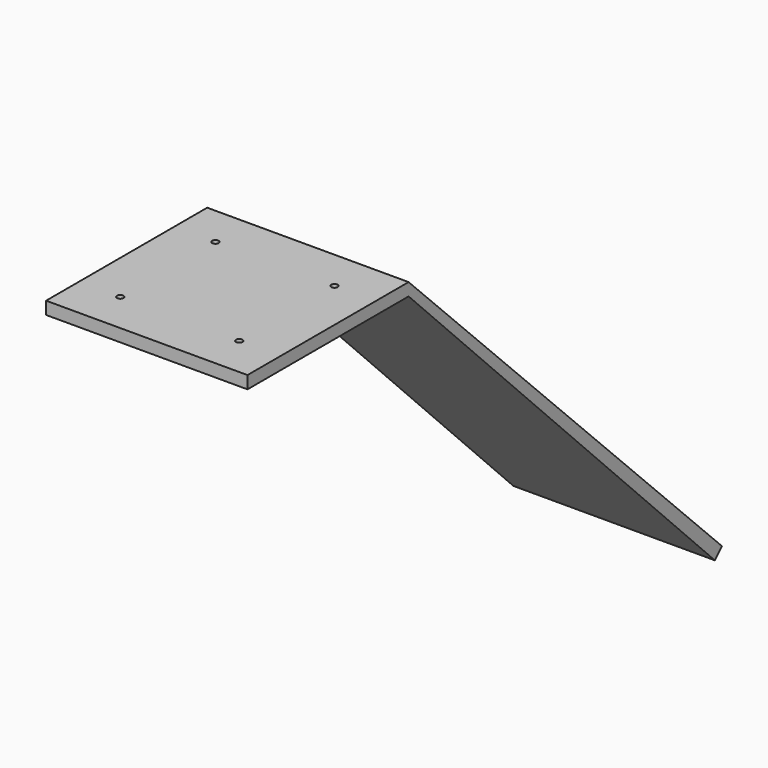
from build123d import *

# Parameters (mm, degrees)
F0_W     = 203.2
F0_H     = 12.7
F1_DEPTH = 203.2
F3_D     = 6.5278


with BuildPart() as f1:
    # F0 (on Right) → F1 (new body)
    with BuildSketch(Plane.YZ):
        with Locations((101.6, -6.35)):
            Rectangle(F0_W, F0_H)
        Polygon((598.331269327, -395.131269327), (203.2, 0), (203.2, -12.7), (589.351013206, -404.1115254481), align=None)
    extrude(amount=-F1_DEPTH)

    # F3 (through all)
    with Locations(Plane.XY):
        with Locations((-161.6327916476, 161.6327916476), (-161.6327916476, 41.5672083524), (-41.5672083524, 41.5672083524), (-41.5672083524, 161.6327916476)):
            Hole(F3_D / 2)


solid = f1.part
